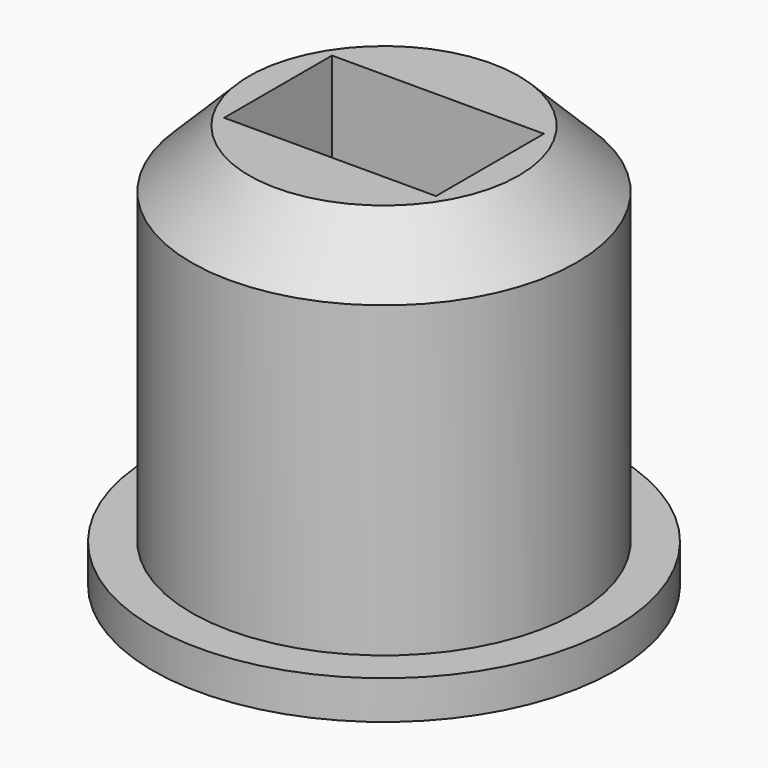
from build123d import *

# Parameters (mm, degrees)
F0_R     = 5
F1_DEPTH = 9.5
F2_SIZE  = 1.5
F4_R     = 6
F5_DEPTH = 1
F3_W     = 5.5
F3_H     = 3.5
F6_DEPTH = 9


with BuildPart() as f1:
    # F0 (on Top) → F1 (new body)
    with BuildSketch(Plane.XY):
        Circle(F0_R)
    extrude(amount=F1_DEPTH)

    # F2
    f2_edges = [f1.edges().sort_by_distance(p)[0] for p in [
        (-5, 0, 9.5),
    ]]
    chamfer(f2_edges, length=F2_SIZE)

    # F4 (on face) → F5 (join)
    with BuildSketch(Plane.XY):
        Circle(F4_R)
    extrude(amount=-F5_DEPTH)

    # F3 (on face) → F6 (cut)
    with BuildSketch(Plane.XY.offset(9.5)):
        Rectangle(F3_W, F3_H)
    extrude(amount=-F6_DEPTH, mode=Mode.SUBTRACT)


solid = f1.part
